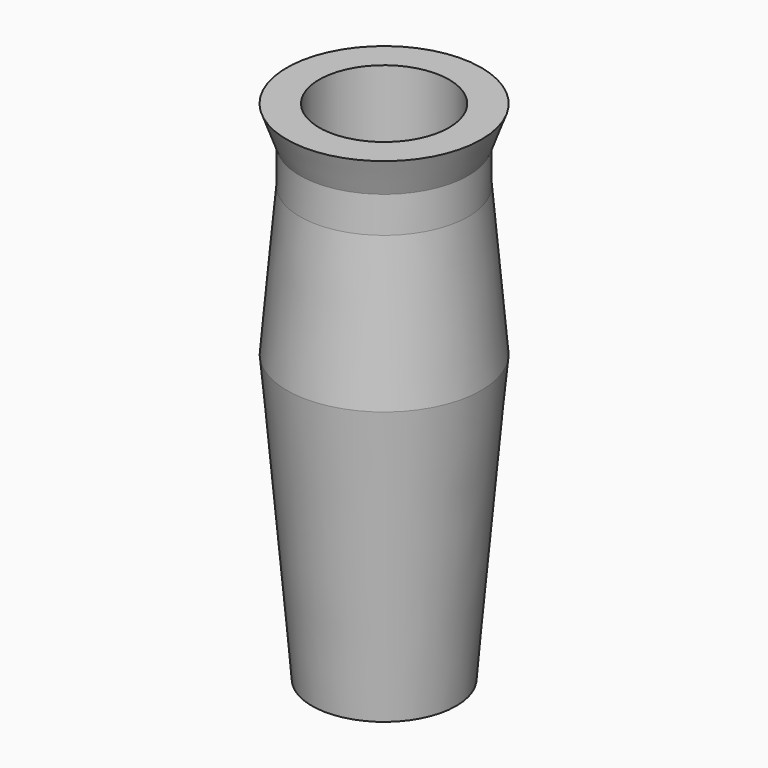
from build123d import *

# Parameters (mm, degrees)
F0_R      = 50
F1_DEPTH  = 198
F1_TAPER  = -5
F1_FACE_R = 67.3227553781
F2_DEPTH  = 103
F2_TAPER  = 5
F3_DEPTH  = 25
F3_FACE_R = 58.311423035
F4_DEPTH  = 25
F4_TAPER  = -20
F5_R      = 45
F6_DEPTH  = 304


with BuildPart() as f1:
    # F0 (on Top) → F1 (new body)
    with BuildSketch(Plane.XY):
        Circle(F0_R)
    extrude(amount=F1_DEPTH, taper=F1_TAPER)

    # F1_face (on face) → F2 (join)
    with BuildSketch(Plane.XY.offset(198)):
        Circle(F1_FACE_R)
    extrude(amount=F2_DEPTH, taper=F2_TAPER)

    # F3 (add): a face of the model
    f3_faces = [f1.faces().sort_by_distance(p)[0] for p in [
        (0, 0, 301),
    ]]
    extrude(f3_faces, amount=F3_DEPTH)

    # F3_face (on face) → F4 (join)
    with BuildSketch(Plane.XY.offset(326)):
        Circle(F3_FACE_R)
    extrude(amount=F4_DEPTH, taper=F4_TAPER)

    # F5 (on face) → F6 (cut)
    with BuildSketch(Plane.XY.offset(351)):
        Circle(F5_R)
    extrude(amount=-F6_DEPTH, mode=Mode.SUBTRACT)


solid = f1.part
